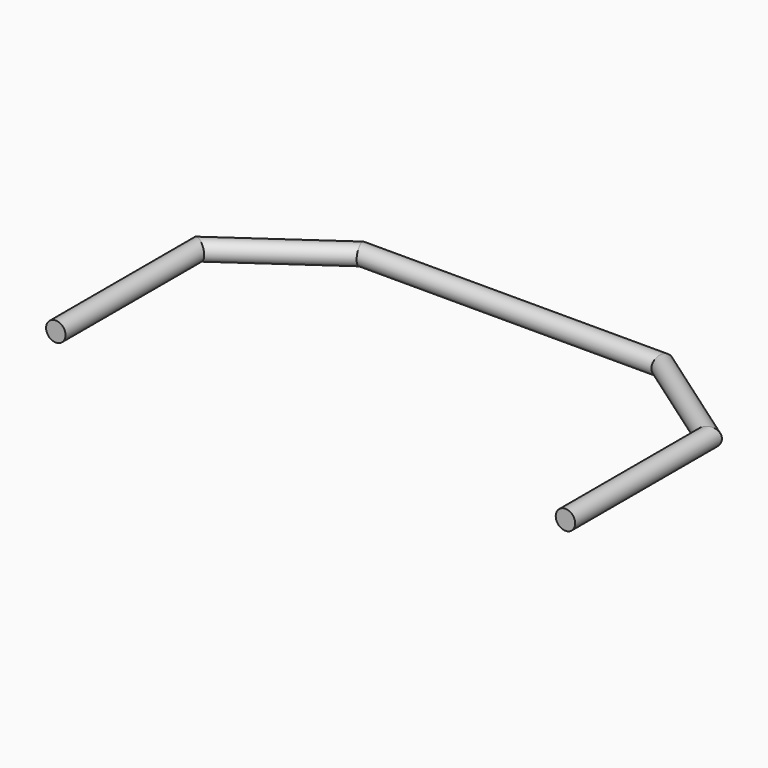
from build123d import *

# Parameters (mm, degrees)
F1_R = 38.15


with BuildPart() as f2:
    # F2: sweep along a path in F0
    with BuildLine(Plane.XY) as f2_path:
        Line((0, 0), (0, 700))
        Line((0, 700), (409.5760221445, 986.7882181755))
        Line((409.5760221445, 986.7882181755), (1590.4239778555, 986.7882181755))
        Line((1590.4239778555, 986.7882181755), (2000, 700))
        Line((2000, 700), (2000, 0))
    # F1 (on Front) → F2 (sweep)
    with BuildSketch(Plane.XZ):
        Circle(F1_R)
    sweep(path=f2_path.line, transition=Transition.RIGHT)


solid = f2.part
